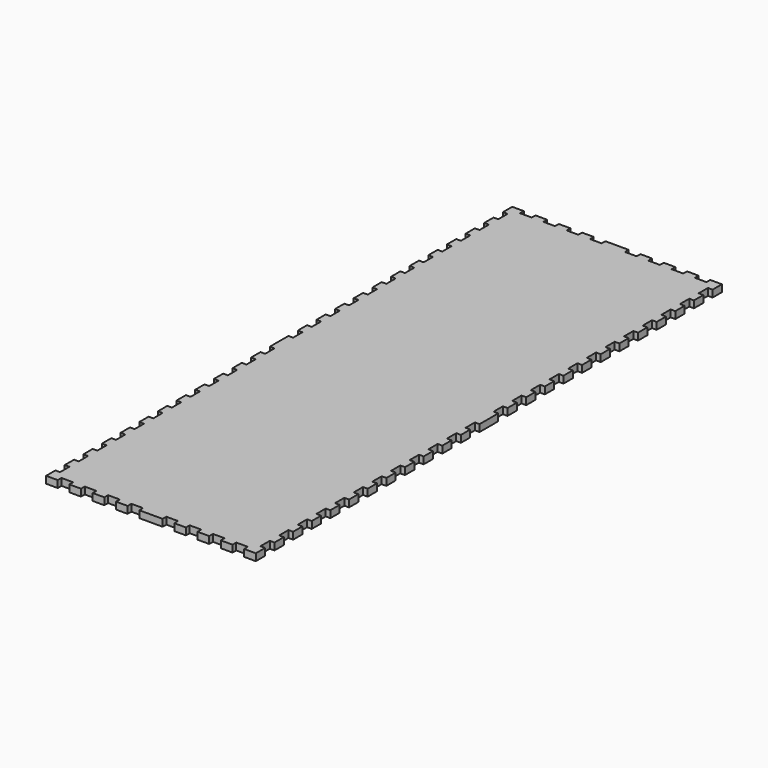
from build123d import *

# Parameters (mm, degrees)
F1_DEPTH = 3


with BuildPart() as f1:
    # F0 (on Top) → F1 (new body)
    with BuildSketch(Plane.XY):
        Polygon((-40, 125), (-45, 125), (-45, 120), (-43, 120), (-43, 115), (-45, 115), (-45, 110), (-43, 110), (-43, 105), (-45, 105), (-45, 100), (-43, 100), (-43, 95), (-45, 95), (-45, 90), (-43, 90), (-43, 85), (-45, 85), (-45, 80), (-43, 80), (-43, 75), (-45, 75), (-45, 70), (-43, 70), (-43, 65), (-45, 65), (-45, 60), (-43, 60), (-43, 55), (-45, 55), (-45, 50), (-43, 50), (-43, 45), (-45, 45), (-45, 40), (-43, 40), (-43, 35), (-45, 35), (-45, 30), (-43, 30), (-43, 25), (-45, 25), (-45, 20), (-43, 20), (-43, 15), (-45, 15), (-45, 10), (-43, 10), (-43, 5), (-45, 5), (-45, -5), (-43, -5), (-43, -10), (-45, -10), (-45, -15), (-43, -15), (-43, -20), (-45, -20), (-45, -25), (-43, -25), (-43, -30), (-45, -30), (-45, -35), (-43, -35), (-43, -40), (-45, -40), (-45, -45), (-43, -45), (-43, -50), (-45, -50), (-45, -55), (-43, -55), (-43, -60), (-45, -60), (-45, -65), (-43, -65), (-43, -70), (-45, -70), (-45, -75), (-43, -75), (-43, -80), (-45, -80), (-45, -85), (-43, -85), (-43, -90), (-45, -90), (-45, -95), (-43, -95), (-43, -100), (-45, -100), (-45, -105), (-43, -105), (-43, -110), (-45, -110), (-45, -115), (-43, -115), (-43, -120), (-45, -120), (-45, -125), (-40, -125), (-40, -123), (-35, -123), (-35, -125), (-30, -125), (-30, -123), (-25, -123), (-25, -125), (-20, -125), (-20, -123), (-15, -123), (-15, -125), (-10, -125), (-10, -123), (-5, -123), (-5, -125), (5, -125), (5, -123), (10, -123), (10, -125), (15, -125), (15, -123), (20, -123), (20, -125), (25, -125), (25, -123), (30, -123), (30, -125), (35, -125), (35, -123), (40, -123), (40, -125), (45, -125), (45, -120), (43, -120), (43, -115), (45, -115), (45, -110), (43, -110), (43, -105), (45, -105), (45, -100), (43, -100), (43, -95), (45, -95), (45, -90), (43, -90), (43, -85), (45, -85), (45, -80), (43, -80), (43, -75), (45, -75), (45, -70), (43, -70), (43, -65), (45, -65), (45, -60), (43, -60), (43, -55), (45, -55), (45, -50), (43, -50), (43, -45), (45, -45), (45, -40), (43, -40), (43, -35), (45, -35), (45, -30), (43, -30), (43, -25), (45, -25), (45, -20), (43, -20), (43, -15), (45, -15), (45, -10), (43, -10), (43, -5), (45, -5), (45, 5), (43, 5), (43, 10), (45, 10), (45, 15), (43, 15), (43, 20), (45, 20), (45, 25), (43, 25), (43, 30), (45, 30), (45, 35), (43, 35), (43, 40), (45, 40), (45, 45), (43, 45), (43, 50), (45, 50), (45, 55), (43, 55), (43, 60), (45, 60), (45, 65), (43, 65), (43, 70), (45, 70), (45, 75), (43, 75), (43, 80), (45, 80), (45, 85), (43, 85), (43, 90), (45, 90), (45, 95), (43, 95), (43, 100), (45, 100), (45, 105), (43, 105), (43, 110), (45, 110), (45, 115), (43, 115), (43, 120), (45, 120), (45, 125), (40, 125), (40, 123), (35, 123), (35, 125), (30, 125), (30, 123), (25, 123), (25, 125), (20, 125), (20, 123), (15, 123), (15, 125), (10, 125), (10, 123), (5, 123), (5, 125), (-5, 125), (-5, 123), (-10, 123), (-10, 125), (-15, 125), (-15, 123), (-20, 123), (-20, 125), (-25, 125), (-25, 123), (-30, 123), (-30, 125), (-35, 125), (-35, 123), (-40, 123), align=None)
    extrude(amount=F1_DEPTH)


solid = f1.part
